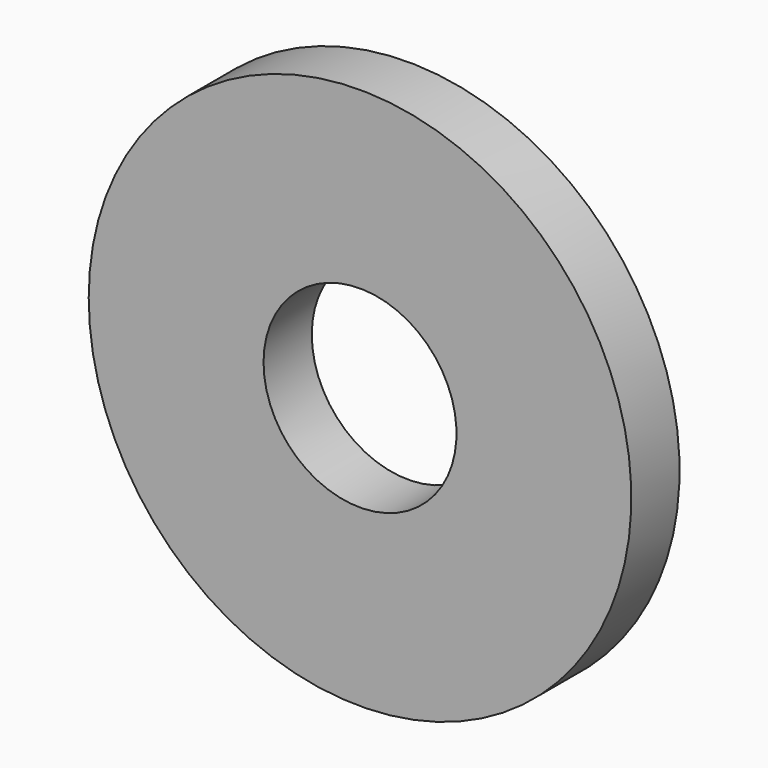
from build123d import *

# Parameters (mm, degrees)
CYLINDER018_R          = 1.6
CYLINDER018_DEPTH      = 1
CYLINDER017_R          = 4.5
CYLINDER017_DEPTH      = 1
CUT020_PLACEMENT_ANGLE = 90


with BuildPart() as facewasherscrewhole:
    # Cylinder018 → Cylinder018 (new body)
    with BuildSketch(Plane.XY):
        Circle(CYLINDER018_R)
    extrude(amount=CYLINDER018_DEPTH)


with BuildPart() as facewasher001:
    # Cylinder017 → Cylinder017 (new body)
    with BuildSketch(Plane.XY):
        Circle(CYLINDER017_R)
    extrude(amount=CYLINDER017_DEPTH)

    # Cut020: cut FaceWasherScrewHole
    add(facewasherscrewhole.part, mode=Mode.SUBTRACT)


with BuildPart() as facewasher001_1:
    # Cut020 placement: moved
    add(facewasher001.part.moved(Location((0, 0, -1))).rotate(Axis((0, 0, -1), (1, 0, 0)), CUT020_PLACEMENT_ANGLE))


with BuildPart() as facewasher001_2:
    # Clone021 placement: moved
    add(facewasher001_1.part.moved(Location((-8.5, 3, 8))))


with BuildPart() as part_mirroring023:
    # Part__Mirroring023: instance of FaceWasher001
    add(facewasher001_2.part.mirror(Plane(origin=(87, 0, 0), x_dir=(0, -1, 0), z_dir=(1, 0, 0))))


solid = part_mirroring023.part
